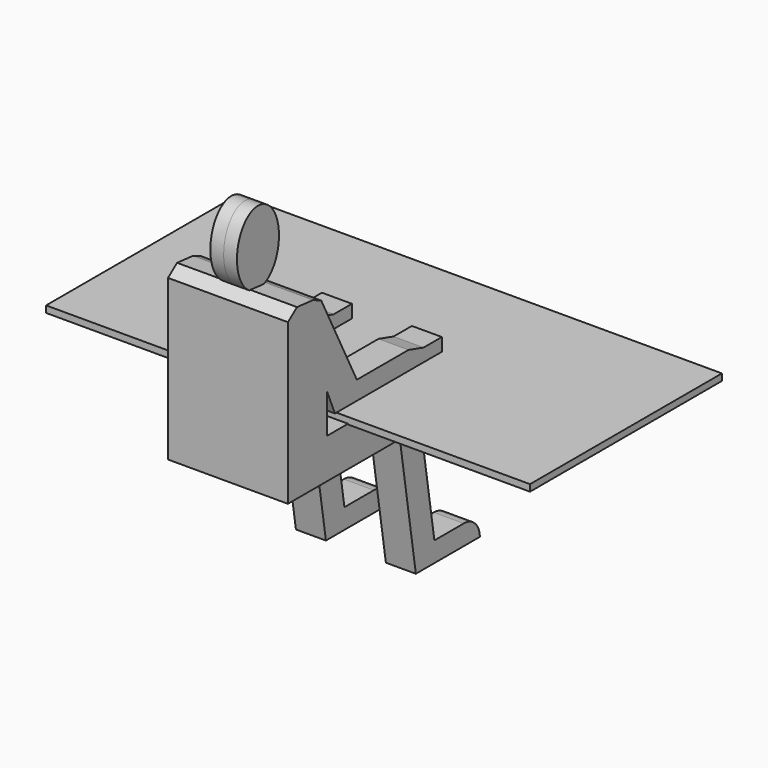
from build123d import *

# Parameters (mm, degrees)
F1_DEPTH = 228.6
F2_W     = 875.777394
F2_H     = 1143.697206
F3_DEPTH = 114.3
F5_DEPTH = 50.8
F7_W     = 1844.705524
F7_H     = 914.4
F8_DEPTH = 25.4


with BuildPart() as f1:
    # F0 (on Right) → F1 (new body, symmetric)
    with BuildSketch(Plane.YZ):
        with BuildLine():
            Line((-304.8, 0), (0, 0))
            ThreePointArc((0, 0), (-22.318463, 53.881537), (-76.2, 76.2))
            Line((-76.2, 76.2), (-216.568421, 76.2))
            Line((-216.568421, 76.2), (-304.8, 635))
            Line((-304.8, 635), (-728.148997, 635))
            Line((-728.148997, 635), (-728.148997, 784.37531))
            Line((-728.148997, 784.37531), (-690.468192, 694.787979))
            Line((-690.468192, 694.787979), (-180.890664, 694.787979))
            Line((-180.890664, 694.787979), (-180.890664, 744.254053))
            Line((-180.890664, 744.254053), (-267.89552, 744.254053))
            Line((-267.89552, 744.254053), (-340.03377, 765.567601))
            Line((-340.03377, 765.567601), (-585.94879, 765.567601))
            Line((-585.94879, 765.567601), (-755.786777, 1100.297213))
            Line((-755.786777, 1100.297213), (-794.843912, 1117.695928))
            Line((-794.843912, 1117.695928), (-871.179223, 1125.26083))
            Line((-871.179223, 1125.26083), (-914.4, 1092.2))
            Line((-914.4, 1092.2), (-914.4, 482.6))
            Line((-914.4, 482.6), (-381, 482.6))
            Line((-381, 482.6), (-304.8, 0))
        make_face()
    extrude(amount=F1_DEPTH, both=True)

    # F2 (on Right) → F3 (cut, symmetric)
    with BuildSketch(Plane.YZ):
        with Locations((-281.857118, 526.775865)):
            Rectangle(F2_W, F2_H)
    extrude(amount=F3_DEPTH, both=True, mode=Mode.SUBTRACT)

    # F4 (on Right) → F5 (join, symmetric)
    with BuildSketch(Plane.YZ):
        with BuildLine():
            add(Edge.make_bspline(
                [(-834.822655, 1112.849355), (-661.657367, 1112.849355), (-748.240011, 1322.730958), (-834.822655, 1532.612562), (-921.405299, 1322.730958), (-1007.987943, 1112.849355), (-834.822655, 1112.849355)],
                knots=[0, 0, 0, 2.094395, 2.094395, 4.18879, 4.18879, 6.283185, 6.283185, 6.283185], degree=2, weights=[1, 0.5, 1, 0.5, 1, 0.5, 1]))
        make_face()
    extrude(amount=F5_DEPTH, both=True)


with BuildPart() as f8:
    # F7 (on offset) → F8 (new body)
    with BuildSketch(Plane.XY.offset(632.46)):
        with Locations((0, -170.853511)):
            Rectangle(F7_W, F7_H)
    extrude(amount=F8_DEPTH)


solid = Compound([f1.part, f8.part])
